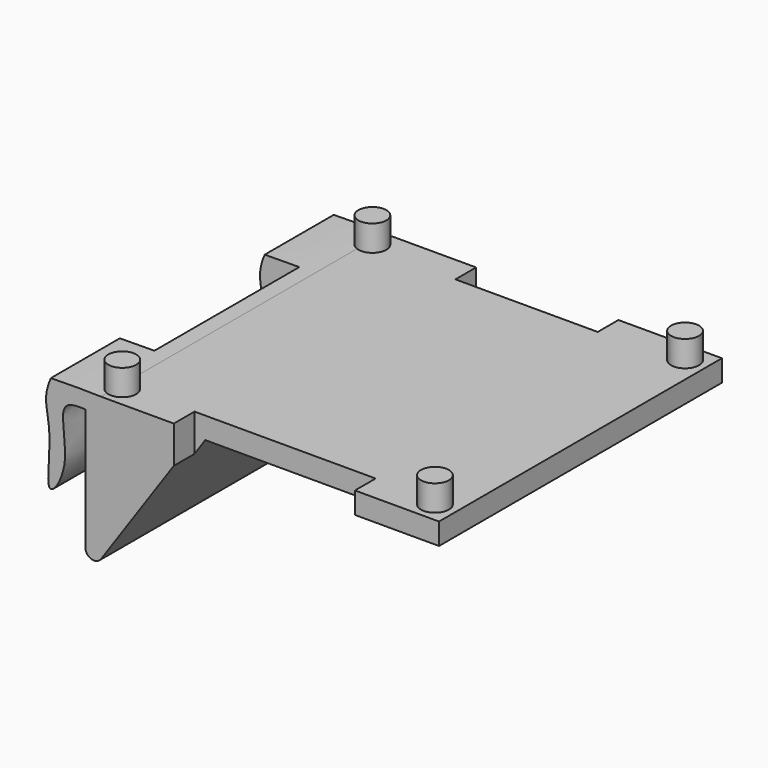
from build123d import *

# Parameters (mm, degrees)
PAD_DEPTH         = 41
PAD001_DEPTH      = 41
FILLET_R          = 1
SKETCH002_W       = 10
SKETCH002_H       = 21
POCKET_DEPTH      = 17
POCKET_DEPTH_BACK = -10
SKETCH003_R       = 1.62
PAD002_DEPTH      = 3
SKETCH004_W       = 21
SKETCH004_H       = 5
SKETCH004_W_2     = 16.5
POCKET001_DEPTH   = 5


with BuildPart() as part:
    # Sketch001 → Pad (new body)
    with BuildSketch(Plane.XZ):
        Polygon((0, 0), (41, 0), (41, -2.5), (11.499851, -2.5), (0, -19.207876), align=None)
    extrude(amount=PAD_DEPTH)

    # Sketch → Pad001 (join)
    with BuildSketch(Plane.XZ):
        with BuildLine():
            add(Edge.make_bspline(
                [(-4.007935, 0), (-5.052523, -2.341822), (-3.57605, -4.512058), (-5.023903, -13.674), (-1.288251, -8.052732), (-4.03214, -0.520727), (4.450398, -3.204271), (10.126076, 0.320226), (-4.007935, 0)],
                knots=[0, 0, 0, 0, 0.166667, 0.333333, 0.5, 0.666667, 0.833333, 1, 1, 1, 1], degree=3))
        make_face()
    extrude(amount=PAD001_DEPTH)

    # Fillet
    fillet_edges = [part.edges().sort_by_distance(p)[0] for p in [
        (0, -20.5, -19.207876),
    ]]
    fillet(fillet_edges, radius=FILLET_R)

    # Sketch002 (on Face6 of Fillet) → Pocket (cut, two sides)
    with BuildSketch(Plane(origin=(0, 0, 0), x_dir=(-1, 0, 0), z_dir=(0, 0, 1))) as pocket_sk:
        with Locations((5, 20.5)):
            Rectangle(SKETCH002_W, SKETCH002_H)
    extrude(amount=-POCKET_DEPTH, mode=Mode.SUBTRACT)
    extrude(pocket_sk.sketch, amount=-POCKET_DEPTH_BACK, mode=Mode.SUBTRACT)

    # Sketch003 (on Face6 of Pocket) → Pad002 (join)
    with BuildSketch(Plane(origin=(0, 0, 0), x_dir=(-1, 0, 0), z_dir=(0, 0, 1))):
        with Locations((-2.375, 2.375)):
            Circle(SKETCH003_R)
        with Locations((-38.625, 38.625)):
            Circle(SKETCH003_R)
        with Locations((-38.625, 2.375)):
            Circle(SKETCH003_R)
        with Locations((-2.375, 38.625)):
            Circle(SKETCH003_R)
    extrude(amount=PAD002_DEPTH)

    # Sketch004 (on Face6 of Pad002) → Pocket001 (cut)
    with BuildSketch(Plane(origin=(0, 0, 0), x_dir=(-1, 0, 0), z_dir=(0, 0, 1))):
        with Locations((-20.75, 40.5)):
            Rectangle(SKETCH004_W, SKETCH004_H)
        with Locations((-20.75, 0.5)):
            Rectangle(SKETCH004_W_2, SKETCH004_H)
    extrude(amount=-POCKET001_DEPTH, mode=Mode.SUBTRACT)


solid = part.part
